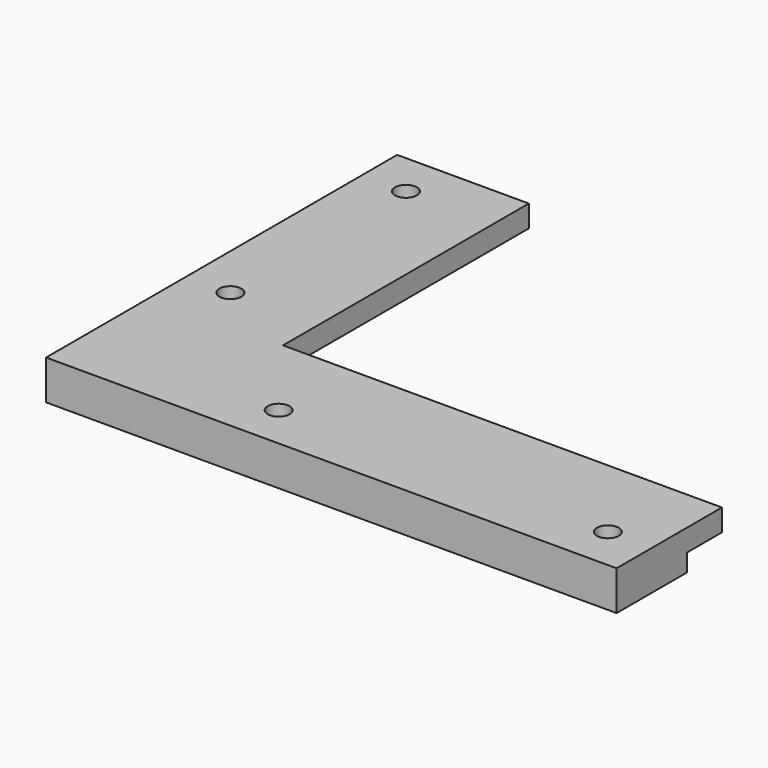
from build123d import *

# Parameters (mm, degrees)
F1_DEPTH  = 12
F2_W      = 130
F2_H      = 20
F3_DEPTH  = 5
F4_W      = 105
F4_H      = 20
F5_DEPTH  = 5
F7_W      = 20
F7_H      = 100
F7_R      = 2.5
F7_H_2    = 20
F7_W_2    = 130
F8_DEPTH  = 25
F9_DEPTH  = 5
F10_W     = 130
F10_H     = 20
F10_W_2   = 20
F10_H_2   = 100
F11_DEPTH = 25
F12_W     = 100
F12_H     = 16
F13_DEPTH = 150
F14_W     = 80
F14_H     = 4
F15_DEPTH = 30.001


with BuildPart() as f1:
    # F0 (on Top) → F1 (new body)
    with BuildSketch(Plane.XY):
        with BuildLine():
            add(Edge.make_bspline(
                [(-116.5, 0), (-116.5, -86.5), (0, -86.5)],
                knots=[3.1415926536, 3.1415926536, 3.1415926536, 4.7123889804, 4.7123889804, 4.7123889804], degree=2, weights=[1, 0.7071067812, 1]))
            Line((-116.5, 0), (-116.5, -86.5))
            Line((-116.5, -86.5), (0, -86.5))
        make_face()
        Polygon((-116.5, -86.5), (-116.5, 0), (-130, 0), (-130, -100), (0, -100), (0, -86.5), align=None)
    extrude(amount=F1_DEPTH)

    # F2 (on face) → F3 (join)
    with BuildSketch(Plane.XZ.offset(100)):
        with Locations((-65, 6)):
            Rectangle(F2_W, F2_H)
    extrude(amount=F3_DEPTH)

    # F4 (on face) → F5 (join)
    with BuildSketch(Plane(origin=(-130, 0, 0), x_dir=(0, -1, 0), z_dir=(-1, 0, 0))):
        with Locations((52.5, 6)):
            Rectangle(F4_W, F4_H)
    extrude(amount=F5_DEPTH)

    # F7 (on face) → F8 (join)
    with BuildSketch(Plane(origin=(0, 0, -4), x_dir=(1, 0, 0), z_dir=(0, 0, -1))):
        with Locations((-140, 50)):
            Rectangle(F7_W, F7_H)
        with Locations((-140, 30)):
            Circle(F7_R, mode=Mode.SUBTRACT)
        with Locations((-140, 80)):
            Circle(F7_R, mode=Mode.SUBTRACT)
        with Locations((-140, 110)):
            Rectangle(F7_W, F7_H_2)
        with Locations((-65, 110)):
            Rectangle(F7_W_2, F7_H_2)
        with Locations((-105, 110)):
            Circle(F7_R, mode=Mode.SUBTRACT)
        with Locations((-30, 110)):
            Circle(F7_R, mode=Mode.SUBTRACT)
    extrude(amount=-F8_DEPTH)

    # F6 (on face) → F9 (join)
    with BuildSketch(Plane.XY.offset(16)):
        Polygon((-120, 0), (-135, 0), (-135, -105), (0, -105), (0, -90), (-120, -90), align=None)
    extrude(amount=F9_DEPTH)

    # F10 (on Top) → F11 (cut, symmetric)
    with BuildSketch(Plane.XY):
        with Locations((-85, -10)):
            Rectangle(F10_W, F10_H)
        with Locations((-10, -10)):
            Rectangle(F10_W_2, F10_H)
        with Locations((-10, -70)):
            Rectangle(F10_W_2, F10_H_2)
    extrude(amount=F11_DEPTH, both=True, mode=Mode.SUBTRACT)

    # F12 (on face) → F13 (cut)
    with BuildSketch(Plane.YZ.offset(-20)):
        with Locations((-70, 4)):
            Rectangle(F12_W, F12_H)
    extrude(amount=-F13_DEPTH, mode=Mode.SUBTRACT)

    # F14 (on face) → F15 (cut, through all)
    with BuildSketch(Plane.YZ.offset(-120)):
        with Locations((-60, 14)):
            Rectangle(F14_W, F14_H)
    extrude(amount=-F15_DEPTH, mode=Mode.SUBTRACT)


solid = f1.part
